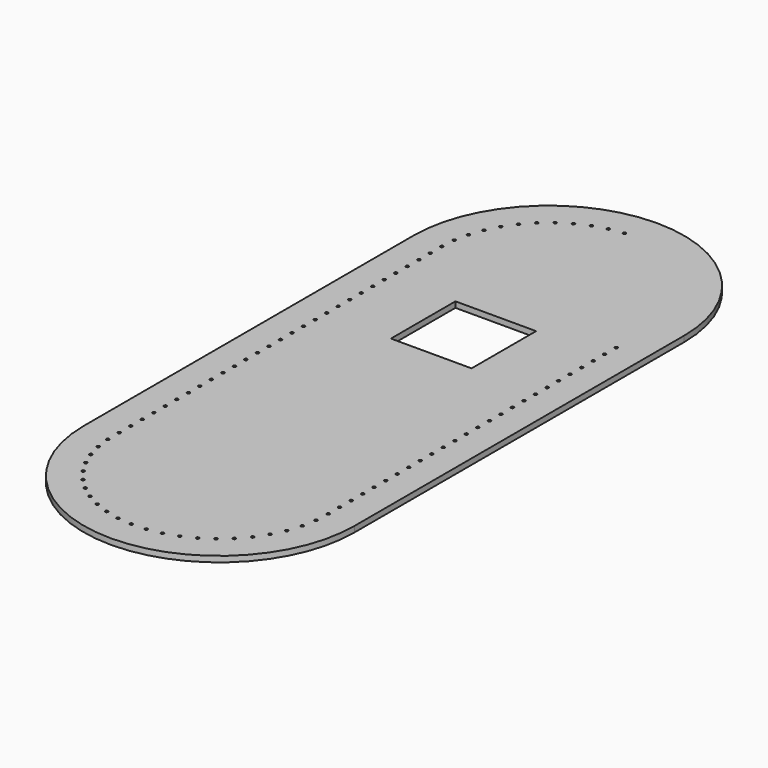
from build123d import *

# Parameters (mm, degrees)
SKETCH_R  = 0.5
SKETCH_W  = 28
SKETCH_H  = 28
PAD_DEPTH = 2


with BuildPart() as part:
    # Sketch → Pad (new body)
    with BuildSketch(Plane.XY):
        with BuildLine():
            ThreePointArc((-47, 0), (0, -47), (47, 0))
            Line((47, 0), (47, 143))
            ThreePointArc((47, 143), (0, 190), (-47, 143))
            Line((-47, 0), (-47, 143))
        make_face()
        with Locations((37, 126)):
            Circle(SKETCH_R, mode=Mode.SUBTRACT)
        with Locations((37, 121)):
            Circle(SKETCH_R, mode=Mode.SUBTRACT)
        with Locations((37, 111)):
            Circle(SKETCH_R, mode=Mode.SUBTRACT)
        with Locations((37, 116)):
            Circle(SKETCH_R, mode=Mode.SUBTRACT)
        with Locations((37, 101)):
            Circle(SKETCH_R, mode=Mode.SUBTRACT)
        with Locations((37, 106)):
            Circle(SKETCH_R, mode=Mode.SUBTRACT)
        with Locations((37, 96)):
            Circle(SKETCH_R, mode=Mode.SUBTRACT)
        with Locations((37, 91)):
            Circle(SKETCH_R, mode=Mode.SUBTRACT)
        with Locations((37, 86)):
            Circle(SKETCH_R, mode=Mode.SUBTRACT)
        with Locations((37, 81)):
            Circle(SKETCH_R, mode=Mode.SUBTRACT)
        with Locations((37, 76)):
            Circle(SKETCH_R, mode=Mode.SUBTRACT)
        with Locations((37, 71)):
            Circle(SKETCH_R, mode=Mode.SUBTRACT)
        with Locations((37, 66)):
            Circle(SKETCH_R, mode=Mode.SUBTRACT)
        with Locations((37, 61)):
            Circle(SKETCH_R, mode=Mode.SUBTRACT)
        with Locations((37, 56)):
            Circle(SKETCH_R, mode=Mode.SUBTRACT)
        with Locations((37, 51)):
            Circle(SKETCH_R, mode=Mode.SUBTRACT)
        with Locations((37, 46)):
            Circle(SKETCH_R, mode=Mode.SUBTRACT)
        with Locations((37, 41)):
            Circle(SKETCH_R, mode=Mode.SUBTRACT)
        with Locations((37, 36)):
            Circle(SKETCH_R, mode=Mode.SUBTRACT)
        with Locations((37, 31)):
            Circle(SKETCH_R, mode=Mode.SUBTRACT)
        with Locations((37, 26)):
            Circle(SKETCH_R, mode=Mode.SUBTRACT)
        with Locations((37, 21)):
            Circle(SKETCH_R, mode=Mode.SUBTRACT)
        with Locations((37, 16)):
            Circle(SKETCH_R, mode=Mode.SUBTRACT)
        with Locations((37, 11)):
            Circle(SKETCH_R, mode=Mode.SUBTRACT)
        with Locations((37, 6)):
            Circle(SKETCH_R, mode=Mode.SUBTRACT)
        with Locations((37, 1)):
            Circle(SKETCH_R, mode=Mode.SUBTRACT)
        with Locations((36.783657, -3.995317)):
            Circle(SKETCH_R, mode=Mode.SUBTRACT)
        with Locations((35.909121, -8.918242)):
            Circle(SKETCH_R, mode=Mode.SUBTRACT)
        with Locations((34.37883, -13.678306)):
            Circle(SKETCH_R, mode=Mode.SUBTRACT)
        with Locations((32.22073, -18.188584)):
            Circle(SKETCH_R, mode=Mode.SUBTRACT)
        with Locations((29.474231, -22.36671)):
            Circle(SKETCH_R, mode=Mode.SUBTRACT)
        with Locations((26.189488, -26.136387)):
            Circle(SKETCH_R, mode=Mode.SUBTRACT)
        with Locations((22.426485, -29.428774)):
            Circle(SKETCH_R, mode=Mode.SUBTRACT)
        with Locations((18.253942, -32.183748)):
            Circle(SKETCH_R, mode=Mode.SUBTRACT)
        with Locations((13.748053, -34.350997)):
            Circle(SKETCH_R, mode=Mode.SUBTRACT)
        with Locations((8.991105, -35.890946)):
            Circle(SKETCH_R, mode=Mode.SUBTRACT)
        with Locations((4.069966, -36.775473)):
            Circle(SKETCH_R, mode=Mode.SUBTRACT)
        with Locations((-0.925498, -36.988423)):
            Circle(SKETCH_R, mode=Mode.SUBTRACT)
        with Locations((-5.90406, -36.52591)):
            Circle(SKETCH_R, mode=Mode.SUBTRACT)
        with Locations((-10.774805, -35.396378)):
            Circle(SKETCH_R, mode=Mode.SUBTRACT)
        with Locations((-15.448786, -33.620455)):
            Circle(SKETCH_R, mode=Mode.SUBTRACT)
        with Locations((-19.840649, -31.230572)):
            Circle(SKETCH_R, mode=Mode.SUBTRACT)
        with Locations((-23.870192, -28.270372)):
            Circle(SKETCH_R, mode=Mode.SUBTRACT)
        with Locations((-27.463829, -24.793913)):
            Circle(SKETCH_R, mode=Mode.SUBTRACT)
        with Locations((-30.555935, -20.864679)):
            Circle(SKETCH_R, mode=Mode.SUBTRACT)
        with Locations((-33.090044, -16.554425)):
            Circle(SKETCH_R, mode=Mode.SUBTRACT)
        with Locations((-35.019879, -11.941862)):
            Circle(SKETCH_R, mode=Mode.SUBTRACT)
        with Locations((-36.310198, -7.111222)):
            Circle(SKETCH_R, mode=Mode.SUBTRACT)
        with Locations((-36.937439, -2.150722)):
            Circle(SKETCH_R, mode=Mode.SUBTRACT)
        with Locations((-37, 2.848887)):
            Circle(SKETCH_R, mode=Mode.SUBTRACT)
        with Locations((-37, 7.848887)):
            Circle(SKETCH_R, mode=Mode.SUBTRACT)
        with Locations((-37, 12.848887)):
            Circle(SKETCH_R, mode=Mode.SUBTRACT)
        with Locations((-37, 17.848887)):
            Circle(SKETCH_R, mode=Mode.SUBTRACT)
        with Locations((-37, 22.848887)):
            Circle(SKETCH_R, mode=Mode.SUBTRACT)
        with Locations((-37, 27.848887)):
            Circle(SKETCH_R, mode=Mode.SUBTRACT)
        with Locations((-37, 32.848887)):
            Circle(SKETCH_R, mode=Mode.SUBTRACT)
        with Locations((-37, 37.848887)):
            Circle(SKETCH_R, mode=Mode.SUBTRACT)
        with Locations((-37, 42.848887)):
            Circle(SKETCH_R, mode=Mode.SUBTRACT)
        with Locations((-37, 47.848887)):
            Circle(SKETCH_R, mode=Mode.SUBTRACT)
        with Locations((-37, 52.848887)):
            Circle(SKETCH_R, mode=Mode.SUBTRACT)
        with Locations((-37, 57.848887)):
            Circle(SKETCH_R, mode=Mode.SUBTRACT)
        with Locations((-37, 62.848887)):
            Circle(SKETCH_R, mode=Mode.SUBTRACT)
        with Locations((-37, 67.848887)):
            Circle(SKETCH_R, mode=Mode.SUBTRACT)
        with Locations((-37, 72.848887)):
            Circle(SKETCH_R, mode=Mode.SUBTRACT)
        with Locations((-37, 77.848887)):
            Circle(SKETCH_R, mode=Mode.SUBTRACT)
        with Locations((-37, 82.848887)):
            Circle(SKETCH_R, mode=Mode.SUBTRACT)
        with Locations((-37, 87.848887)):
            Circle(SKETCH_R, mode=Mode.SUBTRACT)
        with Locations((-37, 92.848887)):
            Circle(SKETCH_R, mode=Mode.SUBTRACT)
        with Locations((-37, 97.848887)):
            Circle(SKETCH_R, mode=Mode.SUBTRACT)
        with Locations((-37, 102.848887)):
            Circle(SKETCH_R, mode=Mode.SUBTRACT)
        with Locations((-37, 107.848887)):
            Circle(SKETCH_R, mode=Mode.SUBTRACT)
        with Locations((-37, 112.848887)):
            Circle(SKETCH_R, mode=Mode.SUBTRACT)
        with Locations((-37, 117.848887)):
            Circle(SKETCH_R, mode=Mode.SUBTRACT)
        with Locations((-37, 122.848887)):
            Circle(SKETCH_R, mode=Mode.SUBTRACT)
        with Locations((-37, 127.848887)):
            Circle(SKETCH_R, mode=Mode.SUBTRACT)
        with Locations((-37, 132.848887)):
            Circle(SKETCH_R, mode=Mode.SUBTRACT)
        with Locations((-37, 137.848887)):
            Circle(SKETCH_R, mode=Mode.SUBTRACT)
        with Locations((-37, 142.848887)):
            Circle(SKETCH_R, mode=Mode.SUBTRACT)
        with Locations((-36.682233, 147.838779)):
            Circle(SKETCH_R, mode=Mode.SUBTRACT)
        with Locations((-35.694902, 152.740328)):
            Circle(SKETCH_R, mode=Mode.SUBTRACT)
        with Locations((-34.055728, 157.464003)):
            Circle(SKETCH_R, mode=Mode.SUBTRACT)
        with Locations((-31.794645, 161.923544)):
            Circle(SKETCH_R, mode=Mode.SUBTRACT)
        with Locations((-28.952945, 166.037513)):
            Circle(SKETCH_R, mode=Mode.SUBTRACT)
        with Locations((-25.58252, 169.730782)):
            Circle(SKETCH_R, mode=Mode.SUBTRACT)
        with Locations((-21.744919, 172.935906)):
            Circle(SKETCH_R, mode=Mode.SUBTRACT)
        with Locations((-17.510224, 175.594356)):
            Circle(SKETCH_R, mode=Mode.SUBTRACT)
        with Locations((-12.955766, 177.657584)):
            Circle(SKETCH_R, mode=Mode.SUBTRACT)
        with Locations((-8.164716, 179.087912)):
            Circle(SKETCH_R, mode=Mode.SUBTRACT)
        with Locations((-3.224566, 179.859221)):
            Circle(SKETCH_R, mode=Mode.SUBTRACT)
        with Locations((0, 106)):
            Rectangle(SKETCH_W, SKETCH_H, mode=Mode.SUBTRACT)
    extrude(amount=PAD_DEPTH)


solid = part.part
